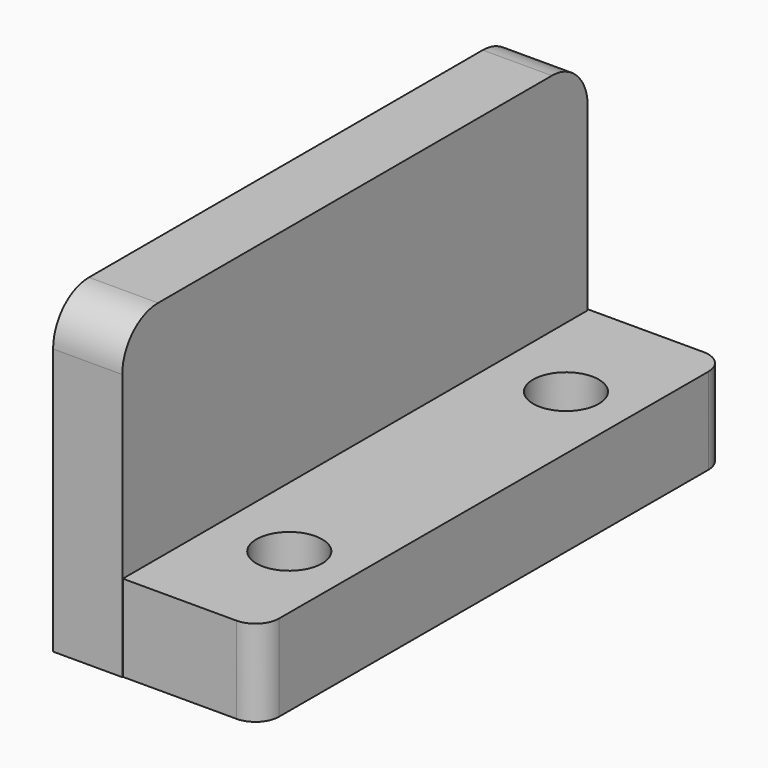
from build123d import *

# Parameters (mm, degrees)
SKETCH013_R      = 1.9
EXTRUDE012_DEPTH = 5
EXTRUDE013_DEPTH = 4


with BuildPart() as extrude012:
    # Sketch013 → Extrude012 (new body)
    with BuildSketch(Plane.XY):
        with BuildLine():
            Line((-37.200665, 15.536565), (-37.258781, -15.414486))
            ThreePointArc((-38.626377, -16.779517), (-37.660247, -16.379864), (-37.258781, -15.414486))
            Line((-38.626377, -16.779517), (-49.200665, -16.779517))
            Line((-49.200665, 16.906731), (-49.200665, -16.779517))
            Line((-38.56826, 16.906731), (-49.200665, 16.906731))
            ThreePointArc((-37.200665, 15.536565), (-37.600315, 16.505263), (-38.56826, 16.906731))
        make_face()
        with Locations((-41, 10)):
            Circle(SKETCH013_R, mode=Mode.SUBTRACT)
        with Locations((-41, -10)):
            Circle(SKETCH013_R, mode=Mode.SUBTRACT)
    extrude(amount=EXTRUDE012_DEPTH)


with BuildPart() as extrude012_1:
    # Extrude012 placement: moved
    add(extrude012.part.moved(Location((0, 0, 11.5))))


with BuildPart() as obj1:
    # Sketch014 (on Face5 of Extrude012) → Extrude013 (new body)
    with BuildSketch(Plane(origin=(-49.200665, 0, 11.5), x_dir=(0, -1, 0), z_dir=(-1, 0, 0))):
        with BuildLine():
            Line((-16.821022, 0), (16.821022, 0))
            Line((16.821022, 0), (16.821022, 15.410553))
            ThreePointArc((16.821022, 15.410553), (16.062591, 17.241569), (14.231576, 18))
            Line((-14.231576, 18), (14.231576, 18))
            ThreePointArc((-14.231576, 18), (-16.062591, 17.241569), (-16.821022, 15.410553))
            Line((-16.821022, 0), (-16.821022, 15.410553))
        make_face()
    extrude(amount=-EXTRUDE013_DEPTH)

    # Fusion013: union Extrude012
    add(extrude012_1.part)


solid = obj1.part
